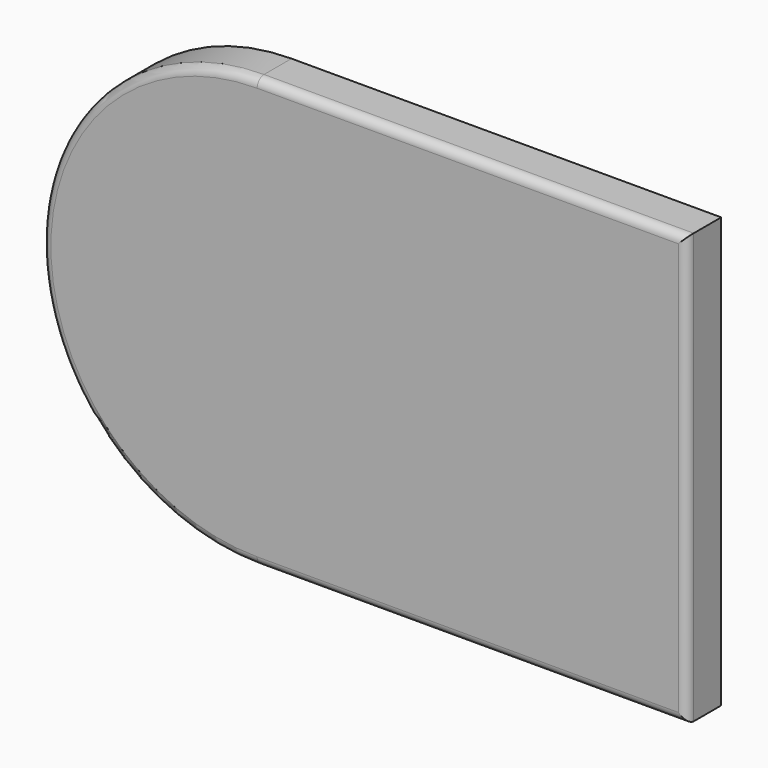
from build123d import *

# Parameters (mm, degrees)
F1_DEPTH = 12.7
F2_W     = 25.4
F2_H     = 254
F3_DEPTH = 254
F4_R     = 5.08


with BuildPart() as f1:
    # F0 (on Front) → F1 (new body, symmetric)
    with BuildSketch(Plane.XZ):
        with BuildLine():
            Line((0, -127), (0, 127))
            ThreePointArc((0, 127), (-127, 0), (0, -127))
        make_face()
    extrude(amount=F1_DEPTH, both=True)

    # F2 (on face) → F3 (join)
    with BuildSketch(Plane.YZ):
        Rectangle(F2_W, F2_H)
    extrude(amount=F3_DEPTH)

    # F4
    f4_edges = [f1.edges().sort_by_distance(p)[0] for p in [
        (127, -12.7, 127),
        (254, -12.7, 0),
    ]]
    fillet(f4_edges, radius=F4_R)


solid = f1.part
